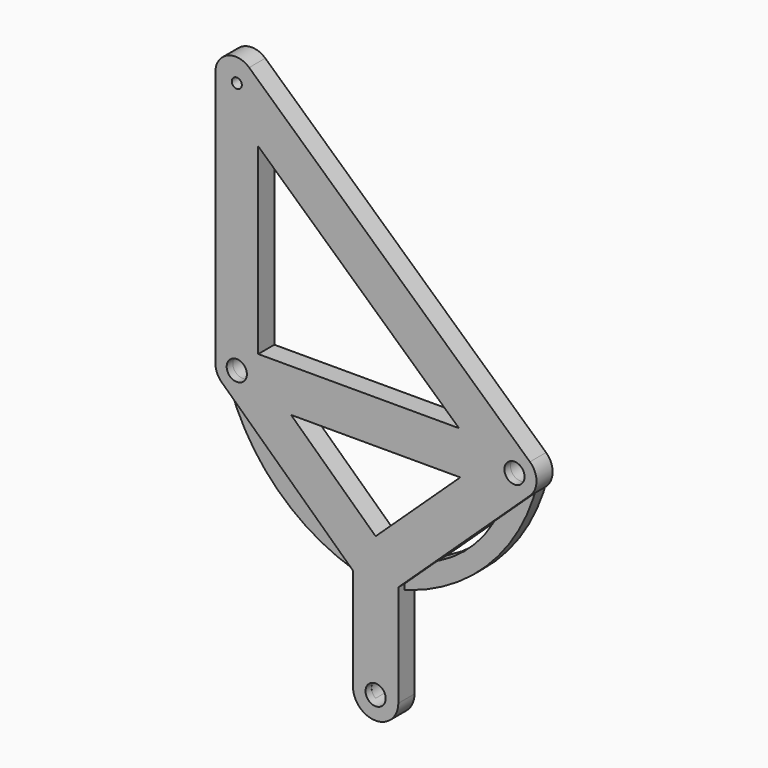
from build123d import *

# Parameters (mm, degrees)
F0_R     = 4
F0_R_2   = 2
F1_DEPTH = 8
F2_R     = 8
F3_R     = 4
F4_DEPTH = 5


with BuildPart() as f1:
    # F0 (on Front) → F1 (new body)
    with BuildSketch(Plane.XZ):
        Polygon((-63.513127, 116.974374), (-63.513127, -6.169423), (-9.001134, -57.288919), (-0.002161, -65.72785), (8.991746, -57.294443), (67.535254, -2.399359), align=None)
        with Locations((-55.022863, -2.478537)):
            Circle(F0_R, mode=Mode.SUBTRACT)
        Polygon((-0.001628, -42.422813), (-33.532704, -10.978509), (33.532521, -10.978509), align=None, mode=Mode.SUBTRACT)
        with Locations((55.024146, -2.478509)):
            Circle(F0_R, mode=Mode.SUBTRACT)
        Polygon((33.046239, 6.021463), (-46.522863, 6.021463), (-46.522863, 78.502029), align=None, mode=Mode.SUBTRACT)
        with Locations((-55.013128, 97.731264)):
            Circle(F0_R_2, mode=Mode.SUBTRACT)
        with BuildLine():
            Line((-0.002161, -65.72785), (-9.001134, -57.288919))
            Line((-9.001134, -57.288919), (-9.001134, -97.737807))
            ThreePointArc((-9.001134, -97.737807), (-0.004694, -106.734248), (8.991746, -97.737807))
            Line((8.991746, -97.737807), (8.991746, -57.294443))
            Line((8.991746, -57.294443), (-0.002161, -65.72785))
        make_face()
        with Locations((-0.004694, -97.737807)):
            Circle(F0_R, mode=Mode.SUBTRACT)
    extrude(amount=F1_DEPTH)

    # F2
    f2_edges = [f1.edges().sort_by_distance(p)[0] for p in [
        (-63.513127, -4, -6.169423),
        (67.535254, -4, -2.399359),
        (-63.513127, -4, 116.974374),
    ]]
    fillet(f2_edges, radius=F2_R)


with BuildPart() as f4:
    # F3 (on Front) → F4 (new body)
    with BuildSketch(Plane.XZ):
        with BuildLine():
            Line((-4.004653, -60.672401), (-4.004653, -91.809885))
            ThreePointArc((-4.004653, -91.809885), (0.023662, -104.911974), (3.995347, -91.792607))
            Line((3.995347, -91.792607), (3.995347, -60.674586))
            ThreePointArc((3.995347, -60.674586), (41.266643, -40.785941), (62.027773, -3.993509))
            ThreePointArc((62.027773, -3.993509), (52.74676, 4.315572), (50.348465, -7.908429))
            ThreePointArc((50.348465, -7.908429), (34.982469, -36.246654), (5.711782, -49.75205))
            ThreePointArc((5.711782, -49.75205), (-0.004648, -46.907136), (-5.721078, -49.75205))
            ThreePointArc((-5.721078, -49.75205), (-34.985059, -36.243224), (-50.346346, -7.907737))
            ThreePointArc((-50.346346, -7.907737), (-52.746001, 4.31572), (-62.026491, -3.993537))
            ThreePointArc((-62.026491, -3.993537), (-41.269232, -40.782195), (-4.004653, -60.672401))
        make_face()
        with Locations((-0.004648, -54.07275)):
            Circle(F3_R, mode=Mode.SUBTRACT)
        with Locations((0.008187, -97.746423)):
            Circle(F3_R, mode=Mode.SUBTRACT)
        with Locations((-55.022863, -2.478537)):
            Circle(F3_R, mode=Mode.SUBTRACT)
        with Locations((55.024146, -2.478509)):
            Circle(F3_R, mode=Mode.SUBTRACT)
    extrude(amount=F4_DEPTH)


solid = Compound([f1.part, f4.part])
